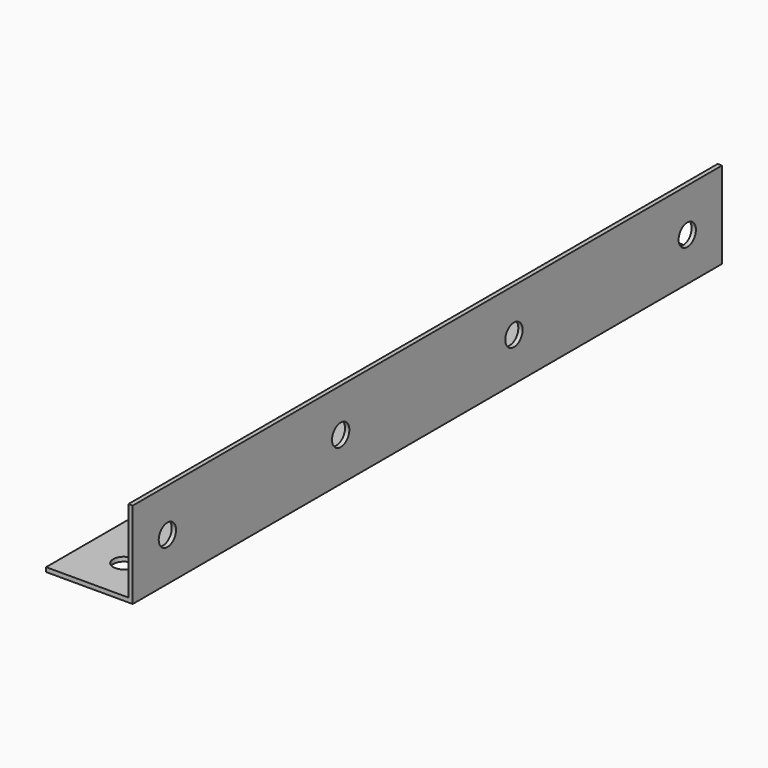
from build123d import *

# Parameters (mm, degrees)
F1_DEPTH = 215.9
F2_R     = 3.175
F3_DEPTH = 25.401
F4_R     = 3.175
F5_DEPTH = 25.4


with BuildPart() as f1:
    # F0 (on Front) → F1 (new body)
    with BuildSketch(Plane.XZ):
        Polygon((-12.7, -11.43), (-12.7, -12.7), (12.7, -12.7), (12.7, 12.7), (11.43, 12.7), (11.43, -11.43), align=None)
    extrude(amount=F1_DEPTH)

    # F2 (on face) → F3 (cut, through all)
    with BuildSketch(Plane(origin=(0, 0, -12.7), x_dir=(1, 0, 0), z_dir=(0, 0, -1))):
        with Locations((0, 203.2)):
            Circle(F2_R)
        with Locations((0, 139.7)):
            Circle(F2_R)
        with Locations((0, 76.2)):
            Circle(F2_R)
        with Locations((0, 12.7)):
            Circle(F2_R)
    extrude(amount=-F3_DEPTH, mode=Mode.SUBTRACT)

    # F4 (on face) → F5 (cut)
    with BuildSketch(Plane.YZ.offset(12.7)):
        with Locations((-139.7, 0)):
            Circle(F4_R)
        with Locations((-203.2, 0)):
            Circle(F4_R)
        with Locations((-76.2, 0)):
            Circle(F4_R)
        with Locations((-12.7, 0)):
            Circle(F4_R)
    extrude(amount=-F5_DEPTH, mode=Mode.SUBTRACT)


solid = f1.part
